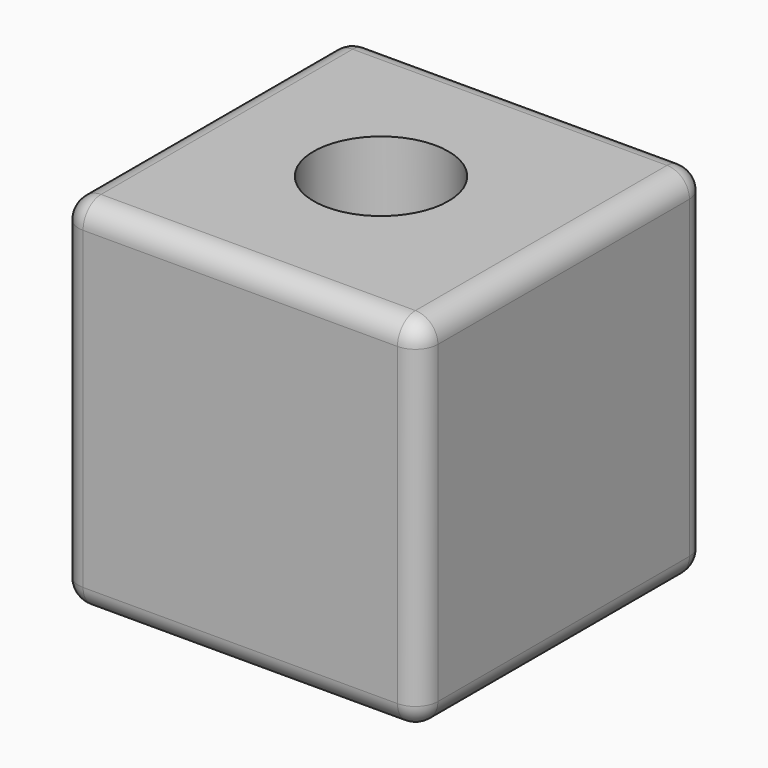
from build123d import *

# Parameters (mm, degrees)
F0_W     = 80
F0_H     = 80
F1_DEPTH = 80
F2_R     = 15
F3_DEPTH = 80.001
F4_R     = 5


with BuildPart() as f1:
    # F0 (on Top) → F1 (new body)
    with BuildSketch(Plane.XY):
        with Locations((-37.957976, 24.749999)):
            Rectangle(F0_W, F0_H)
    extrude(amount=F1_DEPTH)

    # F2 (on face) → F3 (cut, through all)
    with BuildSketch(Plane.XY.offset(80)):
        with Locations((-39.223734, 25.503419)):
            Circle(F2_R)
    extrude(amount=-F3_DEPTH, mode=Mode.SUBTRACT)

    # F4
    f4_edges = [f1.edges().sort_by_distance(p)[0] for p in [
        (-37.957976, 64.749999, 80),
        (-37.957976, -15.250001, 80),
        (-77.957976, 24.749999, 80),
        (-77.957976, -15.250001, 40),
        (-77.957976, 24.749999, 0),
        (-77.957976, 64.749999, 40),
        (2.042024, 24.749999, 0),
        (2.042024, -15.250001, 40),
        (-37.957976, -15.250001, 0),
        (2.042024, 24.749999, 80),
        (-37.957976, 64.749999, 0),
        (2.042024, 64.749999, 40),
    ]]
    fillet(f4_edges, radius=F4_R)


solid = f1.part
